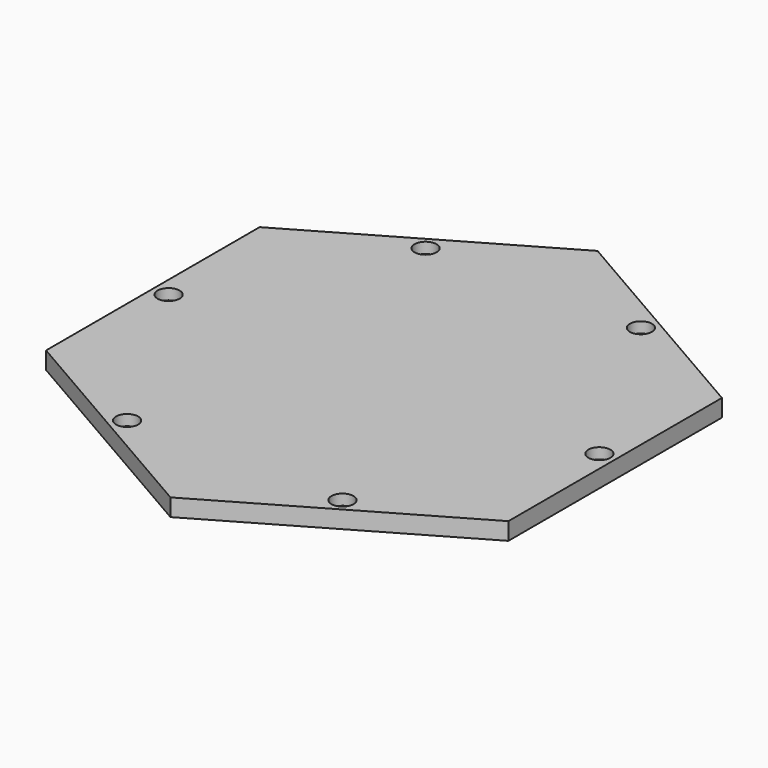
from build123d import *

# Parameters (mm, degrees)
PAD003_DEPTH       = 5
PAD004_DEPTH       = 0.5
HOLE_D             = 3.4
HOLE_DEPTH         = 25
HOLE_CBORE_D       = 7
HOLE_CBORE_DEPTH   = 3.4
POLARPATTERN_COUNT = 6


with BuildPart() as part:
    # Sketch005 → Pad003 (new body)
    with BuildSketch(Plane.XY):
        Polygon((73.30127, 42.320508), (0, 84.641016), (-73.30127, 42.320508), (-73.30127, -42.320508), (0, -84.641016), (73.30127, -42.320508), align=None)
        Polygon((58.30127, 33.660254), (0, 67.320508), (-58.30127, 33.660254), (-58.30127, -33.660254), (0, -67.320508), (58.30127, -33.660254), align=None, mode=Mode.SUBTRACT)
    extrude(amount=PAD003_DEPTH)

    # Sketch006 (on Face14 of Pad003) → Pad004 (join)
    with BuildSketch(Plane.XY.offset(5)):
        Polygon((-73.30127, 42.320508), (-73.30127, -42.320508), (0, -84.641016), (73.30127, -42.320508), (73.30127, 42.320508), (0, 84.641016), align=None)
    extrude(amount=PAD004_DEPTH)

    # Hole
    with Locations(Plane.XY.offset(5.5)):
        with Locations((-34.150635, 59.150635)):
            hole = CounterBoreHole(HOLE_D / 2, HOLE_CBORE_D / 2, HOLE_CBORE_DEPTH, depth=HOLE_DEPTH)

    # PolarPattern: Hole ×6 about axis
    polarpattern_axis = Axis((0, 0, 0), (0, 0, 1))
    for i in range(1, POLARPATTERN_COUNT):
        add(hole.rotate(polarpattern_axis, i * 360 / POLARPATTERN_COUNT), mode=Mode.SUBTRACT)


with BuildPart() as part_1:
    # Body002 placement: moved
    add(part.part.moved(Location((0, 0, 17))))


solid = part_1.part
